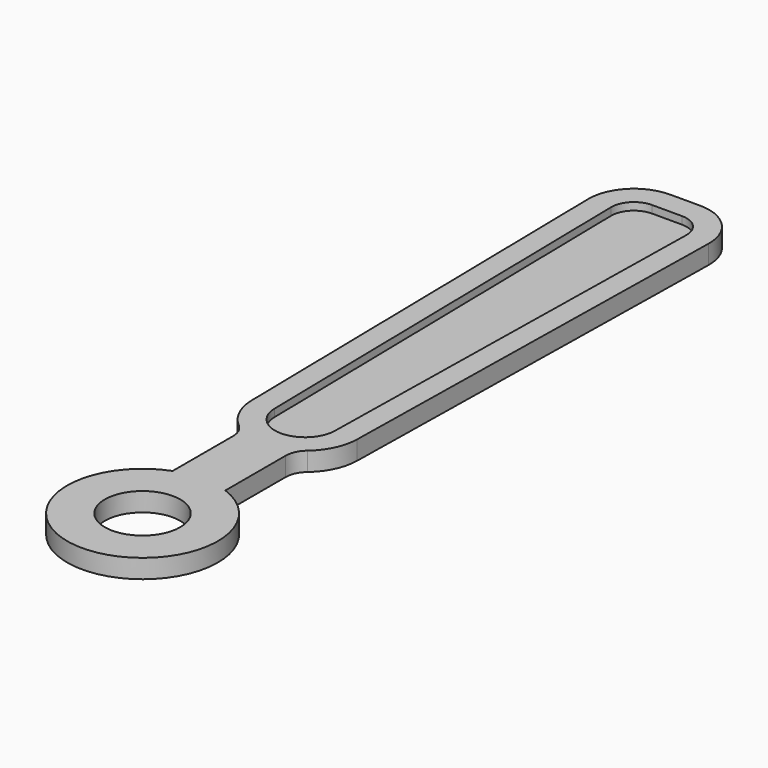
from build123d import *

# Parameters (mm, degrees)
F0_R     = 0.5
F1_DEPTH = 0.25
F3_DEPTH = 0.1


with BuildPart() as f1:
    # F0 (on Top) → F1 (new body)
    with BuildSketch(Plane.XY):
        with BuildLine():
            Line((-0.35, 1.93675), (-0.35, 0.93675))
            ThreePointArc((-0.35, 0.93675), (0, -1), (0.35, 0.93675))
            Line((0.35, 0.93675), (0.35, 1.93675))
            ThreePointArc((0.35, 1.93675), (0.377511, 2.062249), (0.455, 2.16473))
            ThreePointArc((0.455, 2.16473), (0.633216, 2.398292), (0.699892, 2.684414))
            Line((0.699892, 2.684414), (0.799908, 8.389483))
            ThreePointArc((0.799908, 8.389483), (0.627966, 8.820529), (0.2, 9))
            Line((0.2, 9), (0, 9))
            Line((0, 9), (-0.2, 9))
            ThreePointArc((-0.2, 9), (-0.627966, 8.820529), (-0.799908, 8.389483))
            Line((-0.799908, 8.389483), (-0.699892, 2.684414))
            ThreePointArc((-0.699892, 2.684414), (-0.633216, 2.398292), (-0.455, 2.16473))
            ThreePointArc((-0.455, 2.16473), (-0.377511, 2.062249), (-0.35, 1.93675))
        make_face()
        Circle(F0_R, mode=Mode.SUBTRACT)
    extrude(amount=F1_DEPTH)

    # F2 (on face) → F3 (cut)
    with BuildSketch(Plane.XY.offset(0.25)):
        with BuildLine():
            ThreePointArc((0, 2.296684), (0.280353, 2.411373), (0.399939, 2.689673))
            Line((0.399939, 2.689673), (0.499954, 8.394742))
            ThreePointArc((0.499954, 8.394742), (0.413983, 8.610265), (0.2, 8.7))
            Line((0.2, 8.7), (0, 8.7))
            Line((0, 8.7), (-0.2, 8.7))
            ThreePointArc((-0.2, 8.7), (-0.413983, 8.610265), (-0.499954, 8.394742))
            Line((-0.499954, 8.394742), (-0.399939, 2.689673))
            ThreePointArc((-0.399939, 2.689673), (-0.280353, 2.411373), (0, 2.296684))
        make_face()
    extrude(amount=-F3_DEPTH, mode=Mode.SUBTRACT)


solid = f1.part
